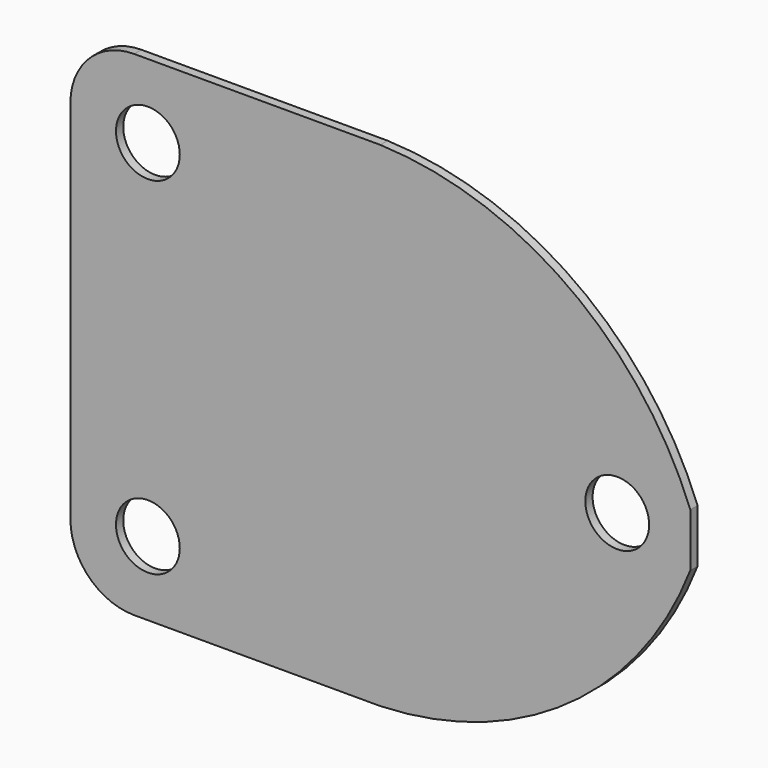
from build123d import *

# Parameters (mm, degrees)
F0_W     = 107.95
F0_H     = 86.0425
F1_DEPTH = 1.5875
F2_R     = 11.0998
F3_R     = 5.55625
F4_DEPTH = 1.5885
F6_DEPTH = 1.5885


with BuildPart() as f1:
    # F0 (on Front) → F1 (new body)
    with BuildSketch(Plane.XZ):
        Rectangle(F0_W, F0_H)
    extrude(amount=F1_DEPTH)

    # F2
    f2_edges = [f1.edges().sort_by_distance(p)[0] for p in [
        (-53.975, -0.79375, 43.02125),
        (-53.975, -0.79375, -43.02125),
    ]]
    fillet(f2_edges, radius=F2_R)

    # F3 (on Front) → F4 (cut, through all)
    with BuildSketch(Plane.XZ):
        with Locations((-40.4876, 30.1625)):
            Circle(F3_R)
        with Locations((-40.4876, -30.1625)):
            Circle(F3_R)
        with Locations((41.2496, 0)):
            Circle(F3_R)
    extrude(amount=F4_DEPTH, mode=Mode.SUBTRACT)

    # F5 (on Front) → F6 (cut, through all)
    with BuildSketch(Plane.XZ):
        with BuildLine():
            ThreePointArc((0, 43.02125), (34.718835, 30.470606), (55.5625, 0))
            ThreePointArc((55.5625, 0), (34.718835, -30.470606), (0, -43.02125))
            Line((0, -43.02125), (73.436641, -43.02125))
            Line((73.436641, -43.02125), (73.436641, 43.02125))
            Line((73.436641, 43.02125), (0, 43.02125))
        make_face()
    extrude(amount=F6_DEPTH, mode=Mode.SUBTRACT)


solid = f1.part
